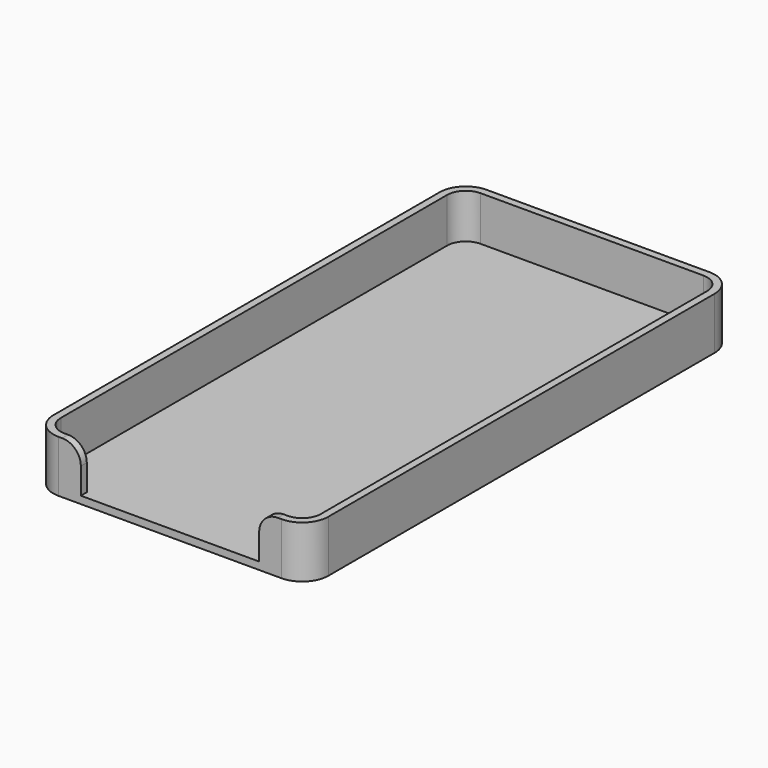
from build123d import *

# Parameters (mm, degrees)
F1_DEPTH = 2
F2_DEPTH = 14
F3_W     = 48
F3_H     = 15.884124
F4_DEPTH = 25
F5_R     = 5


with BuildPart() as f1:
    # F0 (on Top) → F1 (new body)
    with BuildSketch(Plane.XY):
        with BuildLine():
            ThreePointArc((37, 65), (34.949747, 69.949747), (30, 72))
            Line((30, 72), (-30, 72))
            ThreePointArc((-30, 72), (-34.949747, 69.949747), (-37, 65))
            Line((-37, 65), (-37, -65))
            ThreePointArc((-37, -65), (-34.949747, -69.949747), (-30, -72))
            Line((-30, -72), (30, -72))
            ThreePointArc((30, -72), (34.949747, -69.949747), (37, -65))
            Line((37, -65), (37, 65))
        make_face()
        with BuildLine():
            Line((-30, 70), (30, 70))
            ThreePointArc((30, 70), (33.535534, 68.535534), (35, 65))
            Line((35, 65), (35, -65))
            ThreePointArc((35, -65), (33.535534, -68.535534), (30, -70))
            Line((30, -70), (-30, -70))
            ThreePointArc((-30, -70), (-33.535534, -68.535534), (-35, -65))
            Line((-35, -65), (-35, 65))
            ThreePointArc((-35, 65), (-33.535534, 68.535534), (-30, 70))
        make_face(mode=Mode.SUBTRACT)
        with BuildLine():
            ThreePointArc((35, 65), (33.535534, 68.535534), (30, 70))
            Line((30, 70), (-30, 70))
            ThreePointArc((-30, 70), (-33.535534, 68.535534), (-35, 65))
            Line((-35, 65), (-35, -65))
            ThreePointArc((-35, -65), (-33.535534, -68.535534), (-30, -70))
            Line((-30, -70), (30, -70))
            ThreePointArc((30, -70), (33.535534, -68.535534), (35, -65))
            Line((35, -65), (35, 65))
        make_face()
    extrude(amount=F1_DEPTH)

    # F0 (on Top) → F2 (join)
    with BuildSketch(Plane.XY):
        with BuildLine():
            ThreePointArc((37, 65), (34.949747, 69.949747), (30, 72))
            Line((30, 72), (-30, 72))
            ThreePointArc((-30, 72), (-34.949747, 69.949747), (-37, 65))
            Line((-37, 65), (-37, -65))
            ThreePointArc((-37, -65), (-34.949747, -69.949747), (-30, -72))
            Line((-30, -72), (30, -72))
            ThreePointArc((30, -72), (34.949747, -69.949747), (37, -65))
            Line((37, -65), (37, 65))
        make_face()
        with BuildLine():
            Line((-30, 70), (30, 70))
            ThreePointArc((30, 70), (33.535534, 68.535534), (35, 65))
            Line((35, 65), (35, -65))
            ThreePointArc((35, -65), (33.535534, -68.535534), (30, -70))
            Line((30, -70), (-30, -70))
            ThreePointArc((-30, -70), (-33.535534, -68.535534), (-35, -65))
            Line((-35, -65), (-35, 65))
            ThreePointArc((-35, 65), (-33.535534, 68.535534), (-30, 70))
        make_face(mode=Mode.SUBTRACT)
    extrude(amount=F2_DEPTH)

    # F3 (on face) → F4 (cut)
    with BuildSketch(Plane.XY.offset(2)):
        with Locations((0, -70)):
            Rectangle(F3_W, F3_H)
        with Locations((0, -70)):
            Rectangle(F3_W, F3_H)
    extrude(amount=F4_DEPTH, mode=Mode.SUBTRACT)

    # F5
    f5_edges = [f1.edges().sort_by_distance(p)[0] for p in [
        (-24, -71, 14),
        (24, -71, 14),
    ]]
    fillet(f5_edges, radius=F5_R)


solid = f1.part
